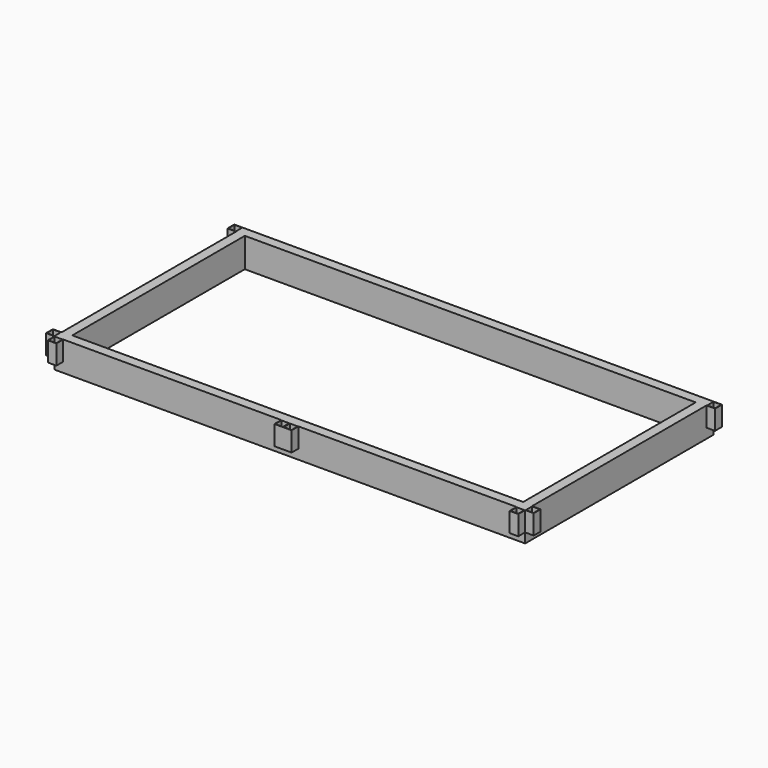
from build123d import *

# Parameters (mm, degrees)
F0_W     = 2336.8
F0_H     = 1117.6
F0_W_2   = 44.45
F0_H_2   = 44.45
F0_W_3   = 40.64
F0_H_3   = 40.64
F1_DEPTH = 101.6
F2_W     = 2438.4
F2_H     = 1219.2
F2_W_2   = 2336.8
F2_H_2   = 1117.6
F3_DEPTH = 50.8


with BuildPart() as f1:
    # F0 (on Top) → F1 (new body)
    with BuildSketch(Plane.XY):
        Polygon((1219.2, 565.15), (1219.2, 609.6), (-1219.2, 609.6), (-1219.2, 565.15), (-1219.2, -565.15), (-1219.2, -609.6), (-1174.75, -609.6), (-44.45, -609.6), (0, -609.6), (44.45, -609.6), (1174.75, -609.6), (1219.2, -609.6), (1219.2, -565.15), align=None)
        Rectangle(F0_W, F0_H, mode=Mode.SUBTRACT)
        with Locations((1241.425, 587.375)):
            Rectangle(F0_W_2, F0_H_2)
        with Locations((1241.425, 587.375)):
            Rectangle(F0_W_3, F0_H_3, mode=Mode.SUBTRACT)
        with Locations((-1241.425, 587.375)):
            Rectangle(F0_W_2, F0_H_2)
        with Locations((-1241.425, 587.375)):
            Rectangle(F0_W_3, F0_H_3, mode=Mode.SUBTRACT)
        with Locations((1241.425, -587.375)):
            Rectangle(F0_W_2, F0_H_2)
        with Locations((1241.425, -587.375)):
            Rectangle(F0_W_3, F0_H_3, mode=Mode.SUBTRACT)
        with Locations((-1241.425, -587.375)):
            Rectangle(F0_W_2, F0_H_2)
        with Locations((-1241.425, -587.375)):
            Rectangle(F0_W_3, F0_H_3, mode=Mode.SUBTRACT)
        with Locations((1196.975, -631.825)):
            Rectangle(F0_W_2, F0_H_2)
        with Locations((1196.975, -631.825)):
            Rectangle(F0_W_3, F0_H_3, mode=Mode.SUBTRACT)
        with Locations((-1196.975, -631.825)):
            Rectangle(F0_W_2, F0_H_2)
        with Locations((-1196.975, -631.825)):
            Rectangle(F0_W_3, F0_H_3, mode=Mode.SUBTRACT)
        with Locations((22.225, -631.825)):
            Rectangle(F0_W_2, F0_H_2)
        with Locations((22.225, -631.825)):
            Rectangle(F0_W_3, F0_H_3, mode=Mode.SUBTRACT)
        with Locations((-22.225, -631.825)):
            Rectangle(F0_W_2, F0_H_2)
        with Locations((-22.225, -631.825)):
            Rectangle(F0_W_3, F0_H_3, mode=Mode.SUBTRACT)
    extrude(amount=F1_DEPTH)

    # F2 (on face) → F3 (join)
    with BuildSketch(Plane(origin=(0, 0, 0), x_dir=(1, 0, 0), z_dir=(0, 0, -1))):
        Rectangle(F2_W, F2_H)
        Rectangle(F2_W_2, F2_H_2, mode=Mode.SUBTRACT)
    extrude(amount=F3_DEPTH)


solid = f1.part
